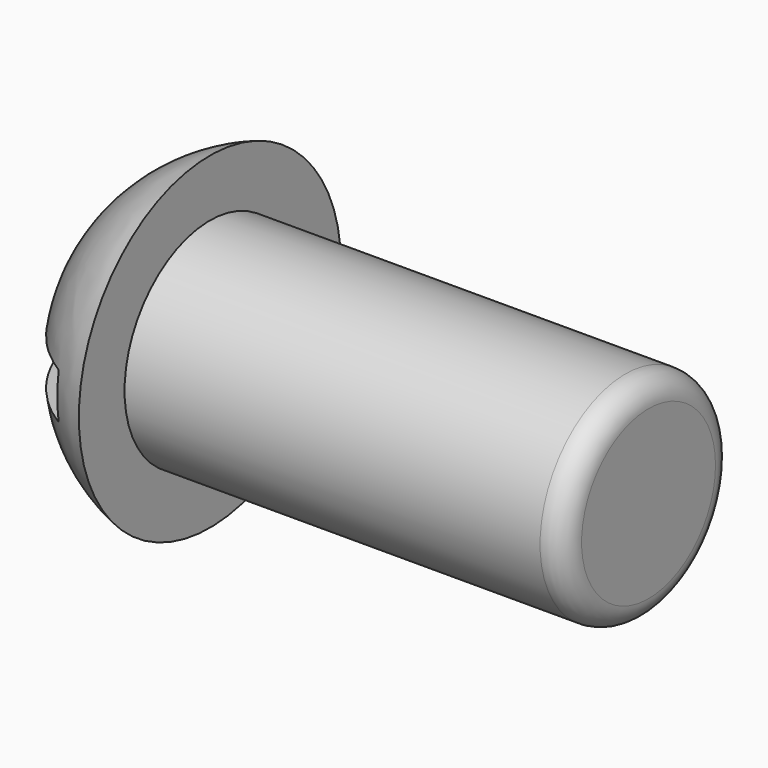
from build123d import *

# Parameters (mm, degrees)
F2_W     = 7.449934
F2_H     = 4
F4_DEPTH = 17.733243
F3_R     = 2


with BuildPart() as f1:
    # F0 (on Top) → F1 (revolve)
    with BuildSketch(Plane.XY):
        with BuildLine():
            Line((-25.471063, 0), (22.695719, 0))
            Line((22.695719, 0), (22.695719, 9.25))
            Line((22.695719, 9.25), (-15.304281, 9.25))
            Line((-15.304281, 9.25), (-15.304281, 14.2))
            ThreePointArc((-15.304281, 14.2), (-22.667339, 8.732174), (-25.471063, 0))
        make_face()
    revolve(axis=Axis((-25.471063, 0, 0), (1, 0, 0)))

    # F2 (on Front) → F4 (cut, symmetric)
    with BuildSketch(Plane.XZ):
        with Locations((-22.029248, 0)):
            Rectangle(F2_W, F2_H)
    extrude(amount=F4_DEPTH, both=True, mode=Mode.SUBTRACT)

    # F3
    f3_edges = [f1.edges().sort_by_distance(p)[0] for p in [
        (22.695719, -9.25, 0),
    ]]
    fillet(f3_edges, radius=F3_R)


solid = f1.part
